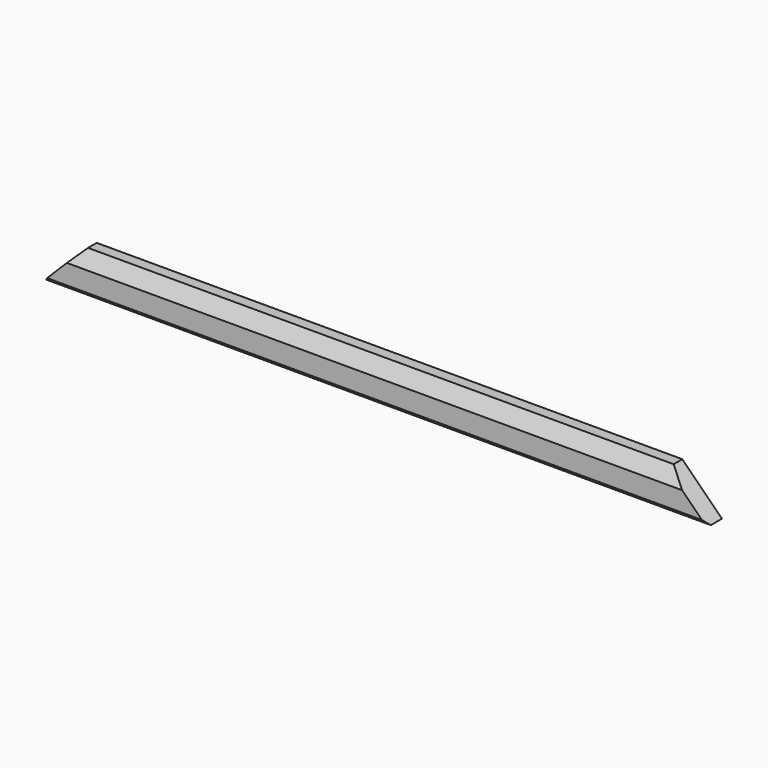
from build123d import *

# Parameters (mm, degrees)
F1_DEPTH = 672
F3_DEPTH = 25


with BuildPart() as f1:
    # F0 (on Right) → F1 (new body)
    with BuildSketch(Plane.YZ):
        Polygon((-14, 0), (0, 0), (0, 40), (-11, 40), (-19, 25), (-19, 5), align=None)
    extrude(amount=F1_DEPTH)

    # F2 (on Front) → F3 (cut)
    with BuildSketch(Plane.XZ):
        Polygon((0, 40), (0, 0), (40, 40), align=None)
        Polygon((672, 40), (632, 40), (672, 0), align=None)
    extrude(amount=F3_DEPTH, mode=Mode.SUBTRACT)


solid = f1.part
